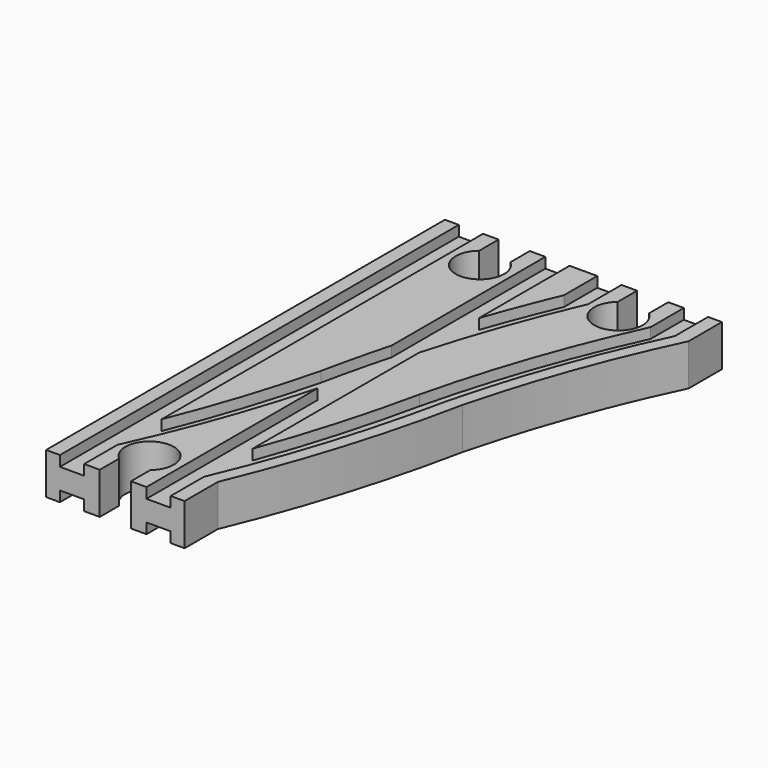
from build123d import *

# Parameters (mm, degrees)
SKETCH003_W          = 7
SKETCH003_H          = 3
SKETCH004_W          = 7
SKETCH004_H          = 3
SKETCH005_W          = 7
SKETCH005_H          = 3
SKETCH006_W          = 7
SKETCH006_H          = 3
POCKET_DEPTH         = 6.001
POCKET_DEPTH_BACK    = -6.001
POCKET001_DEPTH      = 6.001
POCKET001_DEPTH_BACK = -6.001
POCKET002_DEPTH      = 6.001
POCKET002_DEPTH_BACK = -6.001


with BuildPart() as part:
    # AdditivePipe: sweep along a path in Sketch
    with BuildLine(Plane.XY) as additivepipe_path:
        Line((0, 0), (0, 144))
    # Sketch002 → AdditivePipe (sweep)
    with BuildSketch(Plane.XZ):
        Polygon((-20, 6), (-20, -6), (-16, -6), (-16, -3), (-9, -3), (-9, -6), (9, -6), (9, -3), (16, -3), (16, -6), (20, -6), (20, 6), (16, 6), (16, 3), (9, 3), (9, 6), (-9, 6), (-9, 3), (-16, 3), (-16, 6), align=None)
    sweep(path=additivepipe_path.line)

    # AdditivePipe001: sweep along a path in Sketch001
    with BuildLine(Plane.XY) as additivepipe001_path:
        Line((0, 0), (0, 12))
        ThreePointArc((0, 12), (11.467071, 41.510976), (20, 72))
        ThreePointArc((20, 72), (28.532929, 102.489024), (40, 132))
        Line((40, 132), (40, 144))
    # Sketch002 → AdditivePipe001 (sweep)
    with BuildSketch(Plane.XZ):
        Polygon((-20, 6), (-20, -6), (-16, -6), (-16, -3), (-9, -3), (-9, -6), (9, -6), (9, -3), (16, -3), (16, -6), (20, -6), (20, 6), (16, 6), (16, 3), (9, 3), (9, 6), (-9, 6), (-9, 3), (-16, 3), (-16, 6), align=None)
    sweep(path=additivepipe001_path.line)

    # SubtractivePipe: sweep along a path in Sketch
    with BuildLine(Plane.XY) as subtractivepipe_path:
        Line((0, 0), (0, 144))
    # Sketch003 → SubtractivePipe (sweep, cut)
    with BuildSketch(Plane.XZ):
        with Locations((-12.5, 4.5)):
            Rectangle(SKETCH003_W, SKETCH003_H)
    sweep(path=subtractivepipe_path.line, mode=Mode.SUBTRACT)

    # SubtractivePipe001: sweep along a path in Sketch001
    with BuildLine(Plane.XY) as subtractivepipe001_path:
        Line((0, 0), (0, 12))
        ThreePointArc((0, 12), (11.467071, 41.510976), (20, 72))
        ThreePointArc((20, 72), (28.532929, 102.489024), (40, 132))
        Line((40, 132), (40, 144))
    # Sketch003 → SubtractivePipe001 (sweep, cut)
    with BuildSketch(Plane.XZ):
        with Locations((-12.5, 4.5)):
            Rectangle(SKETCH003_W, SKETCH003_H)
    sweep(path=subtractivepipe001_path.line, mode=Mode.SUBTRACT)

    # SubtractivePipe002: sweep along a path in Sketch
    with BuildLine(Plane.XY) as subtractivepipe002_path:
        Line((0, 0), (0, 144))
    # Sketch004 → SubtractivePipe002 (sweep, cut)
    with BuildSketch(Plane.XZ):
        with Locations((12.5, 4.5)):
            Rectangle(SKETCH004_W, SKETCH004_H)
    sweep(path=subtractivepipe002_path.line, mode=Mode.SUBTRACT)

    # SubtractivePipe003: sweep along a path in Sketch001
    with BuildLine(Plane.XY) as subtractivepipe003_path:
        Line((0, 0), (0, 12))
        ThreePointArc((0, 12), (11.467071, 41.510976), (20, 72))
        ThreePointArc((20, 72), (28.532929, 102.489024), (40, 132))
        Line((40, 132), (40, 144))
    # Sketch004 → SubtractivePipe003 (sweep, cut)
    with BuildSketch(Plane.XZ):
        with Locations((12.5, 4.5)):
            Rectangle(SKETCH004_W, SKETCH004_H)
    sweep(path=subtractivepipe003_path.line, mode=Mode.SUBTRACT)

    # SubtractivePipe004: sweep along a path in Sketch
    with BuildLine(Plane.XY) as subtractivepipe004_path:
        Line((0, 0), (0, 144))
    # Sketch005 → SubtractivePipe004 (sweep, cut)
    with BuildSketch(Plane.XZ):
        with Locations((-12.5, -4.5)):
            Rectangle(SKETCH005_W, SKETCH005_H)
    sweep(path=subtractivepipe004_path.line, mode=Mode.SUBTRACT)

    # SubtractivePipe005: sweep along a path in Sketch001
    with BuildLine(Plane.XY) as subtractivepipe005_path:
        Line((0, 0), (0, 12))
        ThreePointArc((0, 12), (11.467071, 41.510976), (20, 72))
        ThreePointArc((20, 72), (28.532929, 102.489024), (40, 132))
        Line((40, 132), (40, 144))
    # Sketch005 → SubtractivePipe005 (sweep, cut)
    with BuildSketch(Plane.XZ):
        with Locations((-12.5, -4.5)):
            Rectangle(SKETCH005_W, SKETCH005_H)
    sweep(path=subtractivepipe005_path.line, mode=Mode.SUBTRACT)

    # SubtractivePipe006: sweep along a path in Sketch
    with BuildLine(Plane.XY) as subtractivepipe006_path:
        Line((0, 0), (0, 144))
    # Sketch006 → SubtractivePipe006 (sweep, cut)
    with BuildSketch(Plane.XZ):
        with Locations((12.5, -4.5)):
            Rectangle(SKETCH006_W, SKETCH006_H)
    sweep(path=subtractivepipe006_path.line, mode=Mode.SUBTRACT)

    # SubtractivePipe007: sweep along a path in Sketch001
    with BuildLine(Plane.XY) as subtractivepipe007_path:
        Line((0, 0), (0, 12))
        ThreePointArc((0, 12), (11.467071, 41.510976), (20, 72))
        ThreePointArc((20, 72), (28.532929, 102.489024), (40, 132))
        Line((40, 132), (40, 144))
    # Sketch006 → SubtractivePipe007 (sweep, cut)
    with BuildSketch(Plane.XZ):
        with Locations((12.5, -4.5)):
            Rectangle(SKETCH006_W, SKETCH006_H)
    sweep(path=subtractivepipe007_path.line, mode=Mode.SUBTRACT)

    # Sketch007 → Pocket (cut, two sides)
    with BuildSketch(Plane.XY) as pocket_sk:
        with BuildLine():
            Line((-4.5, 0), (4.5, 0))
            Line((4.5, 0), (4.5, 7))
            ThreePointArc((4.5, 7), (0, 19.361903), (-4.5, 7))
            Line((-4.5, 0), (-4.5, 7))
        make_face()
    extrude(amount=-POCKET_DEPTH, mode=Mode.SUBTRACT)
    extrude(pocket_sk.sketch, amount=-POCKET_DEPTH_BACK, mode=Mode.SUBTRACT)

    # Sketch008 → Pocket001 (cut, two sides)
    with BuildSketch(Plane.XY) as pocket001_sk:
        with BuildLine():
            Line((-4.5, 144), (4.5, 144))
            Line((4.5, 144), (4.5, 137))
            ThreePointArc((-4.5, 137), (0, 124.638097), (4.5, 137))
            Line((-4.5, 144), (-4.5, 137))
        make_face()
    extrude(amount=-POCKET001_DEPTH, mode=Mode.SUBTRACT)
    extrude(pocket001_sk.sketch, amount=-POCKET001_DEPTH_BACK, mode=Mode.SUBTRACT)

    # Sketch009 → Pocket002 (cut, two sides)
    with BuildSketch(Plane.XY) as pocket002_sk:
        with BuildLine():
            Line((35.5, 144), (44.5, 144))
            Line((44.5, 144), (44.5, 137))
            ThreePointArc((35.5, 137), (40, 124.638097), (44.5, 137))
            Line((35.5, 144), (35.5, 137))
        make_face()
    extrude(amount=-POCKET002_DEPTH, mode=Mode.SUBTRACT)
    extrude(pocket002_sk.sketch, amount=-POCKET002_DEPTH_BACK, mode=Mode.SUBTRACT)


solid = part.part
